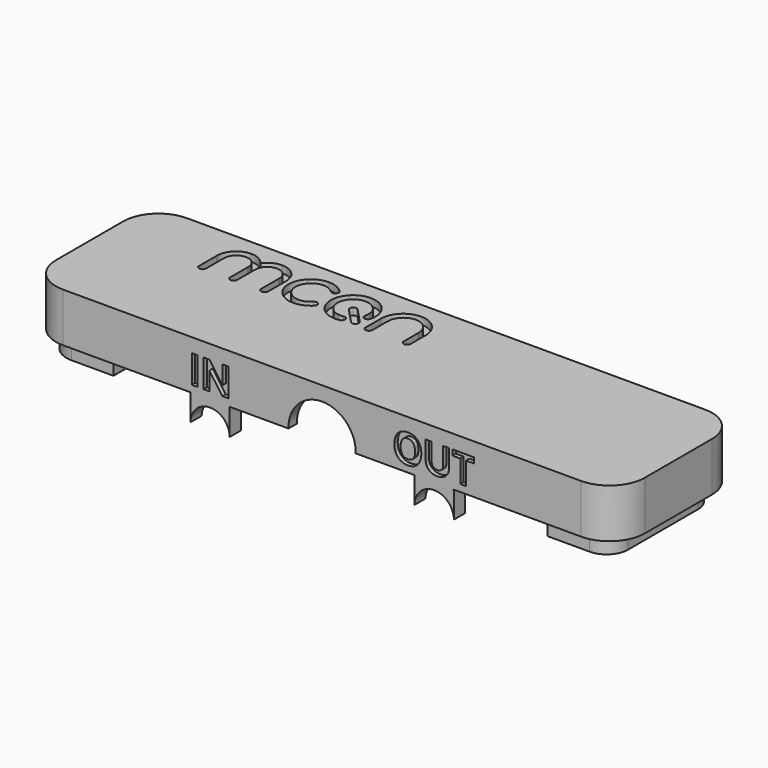
from build123d import *

# Parameters (mm, degrees)
PAD002_DEPTH    = 2
PAD003_DEPTH    = 5
SKETCH005_R     = 4.8
POCKET001_DEPTH = 5
PAD004_DEPTH    = 2
SKETCH007_R     = 2.75
PAD005_DEPTH    = 7.5
POCKET002_DEPTH = 1
SKETCH012_W     = 0.8308154578
SKETCH012_H     = 4
POCKET003_DEPTH = 0.6


with BuildPart() as part:
    # Sketch003 (on Face1 of Binder001) → Pad002 (new body)
    with BuildSketch(Plane.XY.offset(13)):
        with BuildLine():
            Line((-42.05, 6), (-42.05, -6))
            ThreePointArc((-42.05, -6), (-40.570889245, -9.570889245), (-37, -11.05))
            Line((-37, -11.05), (37, -11.05))
            ThreePointArc((37, -11.05), (40.570889245, -9.570889245), (42.05, -6))
            Line((42.05, -6), (42.05, 6))
            ThreePointArc((42.05, 6), (40.570889245, 9.570889245), (37, 11.05))
            Line((37, 11.05), (-37, 11.05))
            ThreePointArc((-37, 11.05), (-40.570889245, 9.570889245), (-42.05, 6))
        make_face()
    extrude(amount=PAD002_DEPTH)

    # Sketch004 (on Face9 of Pad002) → Pad003 (join)
    with BuildSketch(Plane(origin=(0, 0, 13), x_dir=(1, 0, 0), z_dir=(0, 0, -1))):
        with BuildLine():
            Line((-37, 11.05), (37, 11.05))
            ThreePointArc((42.05, 6), (40.570889245, 9.570889245), (37, 11.05))
            Line((42.05, 6), (42.05, -6))
            ThreePointArc((37, -11.05), (40.570889245, -9.570889245), (42.05, -6))
            Line((37, -11.05), (-37, -11.05))
            ThreePointArc((-42.05, -6), (-40.570889245, -9.570889245), (-37, -11.05))
            Line((-42.05, -6), (-42.05, 6))
            ThreePointArc((-37, 11.05), (-40.570889245, 9.570889245), (-42.05, 6))
        make_face()
        with BuildLine():
            ThreePointArc((-40.55, -5.5), (-39.5102290732, -8.0102290732), (-37, -9.05))
            Line((37, -9.05), (-37, -9.05))
            ThreePointArc((37, -9.05), (39.1566756826, -8.1566756826), (40.05, -6))
            Line((40.05, 6.5), (40.05, -6))
            ThreePointArc((40.05, 6.5), (39.1566756826, 8.6566756826), (37, 9.55))
            Line((-37, 9.55), (37, 9.55))
            ThreePointArc((-37, 9.55), (-39.5102290732, 8.5102290732), (-40.55, 6))
            Line((-40.55, -5.5), (-40.55, 6))
        make_face(mode=Mode.SUBTRACT)
    extrude(amount=PAD003_DEPTH)

    # Sketch005 (on Face14 of Pad003) → Pocket001 (cut)
    with BuildSketch(Plane.XZ.offset(11.05)):
        with Locations((0, 8.15)):
            Circle(SKETCH005_R)
    extrude(amount=-POCKET001_DEPTH, mode=Mode.SUBTRACT)

    # Sketch006 (on Face7 of Pocket001) → Pad004 (join)
    with BuildSketch(Plane.XZ.offset(11.05)):
        with BuildLine():
            ThreePointArc((-13.1999984437, 4.2), (-15.9868330339, 6.9999690484), (-18.7998746379, 4.2263305284))
            Line((-18.7999984437, 8), (-18.7998746379, 4.2263305284))
            Line((-13.1999984437, 8), (-18.7999984437, 8))
            Line((-13.1999984437, 4.2), (-13.1999984437, 8))
        make_face()
        with BuildLine():
            ThreePointArc((18.8261769682, 4.2296107602), (16.0000799358, 7.0263305273), (13.1738277912, 4.2297675105))
            Line((13.2000015563, 8), (13.1738277912, 4.2297675105))
            Line((13.2000015563, 8), (18.7998628931, 8))
            Line((18.8261769682, 4.2296107602), (18.7998628931, 8))
        make_face()
    extrude(amount=-PAD004_DEPTH)

    # Sketch007 (on Face26 of Pad004) → Pad005 (join)
    with BuildSketch(Plane(origin=(0, 0, 13), x_dir=(1, 0, 0), z_dir=(0, 0, -1))):
        with BuildLine():
            ThreePointArc((-37, 9.55), (-39.5102290732, 8.5102290732), (-40.55, 6))
            Line((-40.55, 6), (-40.55, -5.5))
            ThreePointArc((-40.55, -5.5), (-39.5102290732, -8.0102290732), (-37, -9.05))
            Line((-37, -9.05), (-31, -9.05))
            Line((-31, -9.05), (-31, 9.55))
            Line((-37, 9.55), (-31, 9.55))
        make_face()
        with Locations((-35.5, 0)):
            Circle(SKETCH007_R, mode=Mode.SUBTRACT)
        with BuildLine():
            ThreePointArc((40.05, 6.5), (39.1566756826, 8.6566756826), (37, 9.55))
            Line((31, 9.55), (37, 9.55))
            Line((31, -9.05), (31, 9.55))
            Line((37, -9.05), (31, -9.05))
            ThreePointArc((37, -9.05), (39.1566784015, -8.1566729638), (40.05, -5.9999923099))
            Line((40.05, 6.5), (40.05, -5.9999923099))
        make_face()
        with Locations((35.5, 0)):
            Circle(SKETCH007_R, mode=Mode.SUBTRACT)
    extrude(amount=PAD005_DEPTH)

    # Sketch011 → Pocket002 (cut)
    with BuildSketch(Plane.XY.offset(15)):
        with BuildLine():
            add(Edge.make_bspline(
                [(-6.5574136903, 7.7681901698), (-5.9431587915, 7.117671604), (-5.7491062987, 6.3706134136), (-5.7155171088, 5.8119601955)],
                knots=[0, 0, 0, 0, 1, 1, 1, 1], degree=3))
            add(Edge.make_bspline(
                [(-5.7155171088, 5.8119601955), (-5.6809141027, 5.2493921386), (-5.7926548133, 4.8574001151), (-5.8021804776, 4.8216919111)],
                knots=[0, 0, 0, 0, 1, 1, 1, 1], degree=3))
            add(Edge.make_bspline(
                [(-5.8021804776, 4.8216919111), (-5.8776091681, 4.5603426925), (-6.1511624069, 4.4119167008), (-6.4130635652, 4.4902629924)],
                knots=[0, 0, 0, 0, 1, 1, 1, 1], degree=3))
            add(Edge.make_bspline(
                [(-6.4130635652, 4.4902629924), (-6.6741904484, 4.5681927526), (-6.8253228363, 4.8416794434), (-6.7517874277, 5.1022002236)],
                knots=[0, 0, 0, 0, 1, 1, 1, 1], degree=3))
            add(Edge.make_bspline(
                [(-6.7517874277, 5.1022002236), (-6.7518856817, 5.102203163)],
                knots=[0, 0, 0.0014142136, 0.0014142136], degree=1))
            add(Edge.make_bspline(
                [(-6.7518856817, 5.102203163), (-6.7518856817, 5.102203163), (-6.7517309522, 5.1024443891), (-6.7515079896, 5.103322797)],
                knots=[0, 0, 0, 0, 1, 1, 1, 1], degree=3))
            add(Edge.make_bspline(
                [(-6.7515079896, 5.103322797), (-6.7512432484, 5.1039541), (-6.7510114677, 5.1051272702), (-6.750622018, 5.1066399205)],
                knots=[0, 0, 0, 0, 1, 1, 1, 1], degree=3))
            add(Edge.make_bspline(
                [(-6.750622018, 5.1066399205), (-6.749183049, 5.1120056825), (-6.7467634209, 5.1222100365), (-6.7436814111, 5.1364757679)],
                knots=[0, 0, 0, 0, 1, 1, 1, 1], degree=3))
            add(Edge.make_bspline(
                [(-6.7436814111, 5.1364757679), (-6.7370737784, 5.1650431305), (-6.728081987, 5.2108473618), (-6.7195211901, 5.270186513)],
                knots=[0, 0, 0, 0, 1, 1, 1, 1], degree=3))
            add(Edge.make_bspline(
                [(-6.7195211901, 5.270186513), (-6.7024025357, 5.3887665612), (-6.6880409968, 5.5614680254), (-6.7007358182, 5.7600561236)],
                knots=[0, 0, 0, 0, 1, 1, 1, 1], degree=3))
            add(Edge.make_bspline(
                [(-6.7007358182, 5.7600561236), (-6.7279817854, 6.1609265083), (-6.8527636817, 6.6479121306), (-7.2722472033, 7.0947889386)],
                knots=[0, 0, 0, 0, 1, 1, 1, 1], degree=3))
            add(Edge.make_bspline(
                [(-7.2722472033, 7.0947889386), (-7.6960251376, 7.5444002821), (-8.2562651042, 7.7799222968), (-8.8263753324, 7.8005672771)],
                knots=[0, 0, 0, 0, 1, 1, 1, 1], degree=3))
            add(Edge.make_bspline(
                [(-8.8263753324, 7.8005672771), (-9.3966667447, 7.8200867446), (-9.9676343142, 7.6246999806), (-10.4126266585, 7.2057501351)],
                knots=[0, 0, 0, 0, 1, 1, 1, 1], degree=3))
            add(Edge.make_bspline(
                [(-10.4126266585, 7.2057501351), (-10.8574283734, 6.7865979028), (-11.0865468643, 6.2283790626), (-11.1011030314, 5.6579883386)],
                knots=[0, 0, 0, 0, 1, 1, 1, 1], degree=3))
            add(Edge.make_bspline(
                [(-11.1011030314, 5.6579883386), (-11.1146766577, 5.0875682208), (-10.9130662994, 4.5142509412), (-10.4895919455, 4.0643536537)],
                knots=[0, 0, 0, 0, 1, 1, 1, 1], degree=3))
            add(Edge.make_bspline(
                [(-10.4895919455, 4.0643536537), (-10.0814074086, 3.63261534), (-9.6203140788, 3.4753893883), (-9.2288793693, 3.4189827302)],
                knots=[0, 0, 0, 0, 1, 1, 1, 1], degree=3))
            add(Edge.make_bspline(
                [(-9.2288793693, 3.4189827302), (-8.8570549503, 3.3661621675), (-8.5624089396, 3.4192046197), (-8.5338077556, 3.4252329233)],
                knots=[0, 0, 0, 0, 1, 1, 1, 1], degree=3))
            add(Edge.make_bspline(
                [(-8.5338077556, 3.4252329233), (-8.5334623967, 3.4252717625), (-8.5331617557, 3.4254594525), (-8.5329146508, 3.4255012311)],
                knots=[0, 0, 0, 0, 1, 1, 1, 1], degree=3))
            add(Edge.make_bspline(
                [(-8.5329146508, 3.4255012311), (-8.5325186951, 3.4255877277), (-8.5322715902, 3.4256295062), (-8.5320721427, 3.4257218815)],
                knots=[0, 0, 0, 0, 1, 1, 1, 1], degree=3))
            add(Edge.make_bspline(
                [(-8.5320721427, 3.4257218815), (-8.5317773805, 3.4257130634), (-8.5315749936, 3.4259036928), (-8.5315749936, 3.4259036928)],
                knots=[0, 0, 0, 0, 1, 1, 1, 1], degree=3))
            add(Edge.make_bspline(
                [(-8.5315749936, 3.4259036928), (-8.2672313312, 3.4834421576), (-8.0032176431, 3.3162790046), (-7.940935901, 3.0510558766)],
                knots=[0, 0, 0, 0, 1, 1, 1, 1], degree=3))
            add(Edge.make_bspline(
                [(-7.940935901, 3.0510558766), (-7.8784870447, 2.784844329), (-8.0429496803, 2.5207006809), (-8.3082899532, 2.4610776776)],
                knots=[0, 0, 0, 0, 1, 1, 1, 1], degree=3))
            add(Edge.make_bspline(
                [(-8.3082899532, 2.4610776776), (-8.3445572671, 2.4535577299), (-8.7425279947, 2.3654496549), (-9.3020691148, 2.4336710064)],
                knots=[0, 0, 0, 0, 1, 1, 1, 1], degree=3))
            add(Edge.make_bspline(
                [(-9.3020691148, 2.4336710064), (-9.8579147921, 2.5005033585), (-10.5918373124, 2.7389594185), (-11.2045237126, 3.3909553619)],
                knots=[0, 0, 0, 0, 1, 1, 1, 1], degree=3))
            add(Edge.make_bspline(
                [(-11.2045237126, 3.3909553619), (-12.426112692, 4.6882943079), (-12.376306575, 6.7196811299), (-11.0936530649, 7.9286791247)],
                knots=[0, 0, 0, 0, 1, 1, 1, 1], degree=3))
            add(Edge.make_bspline(
                [(-11.0936530649, 7.9286791247), (-9.8101417226, 9.1367663784), (-7.7794609796, 9.0650019455), (-6.5574136903, 7.7681901698)],
                knots=[0, 0, 0, 0, 1, 1, 1, 1], degree=3))
        make_face()
        with BuildLine():
            add(Edge.make_bspline(
                [(-8.3533675642, 5.7355924656), (-7.3320706504, 4.6513045838)],
                knots=[0, 0, 21.43, 21.43], degree=1))
            add(Edge.make_bspline(
                [(-7.3320706504, 4.6513045838), (-6.3108690513, 3.5671178955)],
                knots=[0, 0, 21.428, 21.428], degree=1))
            add(Edge.make_bspline(
                [(-6.3108690513, 3.5671178955), (-6.1229084806, 3.3675644002), (-6.1304900832, 3.0549652834), (-6.3279691127, 2.868958664)],
                knots=[0, 0, 0, 0, 1, 1, 1, 1], degree=3))
            add(Edge.make_bspline(
                [(-6.3279691127, 2.868958664), (-6.5252457553, 2.6831426739), (-6.8377390543, 2.6942614231), (-7.0256996249, 2.8938149185)],
                knots=[0, 0, 0, 0, 1, 1, 1, 1], degree=3))
            add(Edge.make_bspline(
                [(-7.0256996249, 2.8938149185), (-8.046901224, 3.9780016068)],
                knots=[0, 0, 21.428, 21.428], degree=1))
            add(Edge.make_bspline(
                [(-8.046901224, 3.9780016068), (-9.0681981379, 5.0622894885)],
                knots=[0, 0, 21.43, 21.43], degree=1))
            add(Edge.make_bspline(
                [(-9.0681981379, 5.0622894885), (-9.0682993313, 5.0621941738)],
                knots=[0, 0, 0.002, 0.002], degree=1))
            add(Edge.make_bspline(
                [(-9.0682993313, 5.0621941738), (-9.2561169299, 5.261595879), (-9.2484817912, 5.5743409072), (-9.0512051486, 5.7601568973)],
                knots=[0, 0, 0, 0, 1, 1, 1, 1], degree=3))
            add(Edge.make_bspline(
                [(-9.0512051486, 5.7601568973), (-8.8537261191, 5.9461635167), (-8.5411851628, 5.9349941708), (-8.3533675642, 5.7355924656)],
                knots=[0, 0, 0, 0, 1, 1, 1, 1], degree=3))
        make_face()
        with BuildLine():
            add(Edge.make_bspline(
                [(-14.9584863, 8.8588888889), (-15.7852563, 8.8588888889), (-16.6119839667, 8.5467158333), (-17.2350022222, 7.9236975778)],
                knots=[0, 0, 0, 0, 1, 1, 1, 1], degree=3))
            add(Edge.make_bspline(
                [(-17.2350022222, 7.9236975778), (-18.4810401444, 6.6776582444), (-18.4810401444, 4.6669547333), (-17.2350022222, 3.4209154)],
                knots=[0, 0, 0, 0, 1, 1, 1, 1], degree=3))
            add(Edge.make_bspline(
                [(-17.2350022222, 3.4209154), (-15.9889643, 2.1748774778), (-13.9280083, 2.1748774778), (-12.6819703778, 3.4209154)],
                knots=[0, 0, 0, 0, 1, 1, 1, 1], degree=3))
            add(Edge.make_bspline(
                [(-12.6819703778, 3.4209154), (-12.3209669129, 3.7690138501), (-12.6880508078, 4.111142466), (-13.0551347027, 4.453271082), (-13.4032753444, 4.0931842556)],
                knots=[5.4975252098, 5.4975252098, 5.4975252098, 7.0858427102, 7.0858427102, 8.6741602105, 8.6741602105, 8.6741602105], degree=2, weights=[1, 0.7008850558, 1, 0.7008850558, 1]))
            add(Edge.make_bspline(
                [(-13.4032753444, 4.0931842556), (-14.2732055889, 3.2232540111), (-15.6421343556, 3.2232540111), (-16.5120660111, 4.0931842556)],
                knots=[0, 0, 0, 0, 1, 1, 1, 1], degree=3))
            add(Edge.make_bspline(
                [(-16.5120660111, 4.0931842556), (-16.5185994556, 4.0994778111)],
                knots=[0, 0, 0.064287246, 0.064287246], degree=1))
            add(Edge.make_bspline(
                [(-16.5185994556, 4.0994778111), (-17.3820583444, 4.9699640333), (-17.3798414889, 6.3852280444), (-16.5120660111, 7.2529978778)],
                knots=[0, 0, 0, 0, 1, 1, 1, 1], degree=3))
            add(Edge.make_bspline(
                [(-16.5120660111, 7.2529978778), (-15.6421343556, 8.1229295333), (-14.2732055889, 8.1229295333), (-13.4032753444, 7.2529978778)],
                knots=[0, 0, 0, 0, 1, 1, 1, 1], degree=3))
            add(Edge.make_bspline(
                [(-13.4032753444, 7.2529978778), (-13.0568431811, 6.8690866943), (-12.6769575744, 7.2223180818), (-12.2970719678, 7.5755494694), (-12.6819703778, 7.9236933444)],
                knots=[3.8579103665, 3.8579103665, 3.8579103665, 5.4793570709, 5.4793570709, 7.1008037753, 7.1008037753, 7.1008037753], degree=2, weights=[1, 0.6889743379, 1, 0.6889743379, 1]))
            add(Edge.make_bspline(
                [(-12.6819703778, 7.9236933444), (-13.3049886333, 8.5467116), (-14.1317177111, 8.8588846556), (-14.9584863, 8.8588846556)],
                knots=[0, 0, 0, 0, 1, 1, 1, 1], degree=3))
            add(Edge.make_bspline(
                [(-14.9584863, 8.8588846556), (-14.9584863, 8.8588888889)],
                knots=[0, 0, 3e-05, 3e-05], degree=1))
        make_face()
        with BuildLine():
            add(Edge.make_bspline(
                [(-1.7876032421, 8.8015625238), (-3.5644631073, 8.7705473592), (-4.9710699857, 7.3042220454), (-4.9405547072, 5.5560068899)],
                knots=[0, 0, 0, 0, 1, 1, 1, 1], degree=3))
            add(Edge.make_bspline(
                [(-4.9405547072, 5.5560068899), (-4.9382108515, 5.5434282451), (-4.9345377292, 5.532731176), (-4.9317352625, 5.5207291113)],
                knots=[0, 0, 0, 0, 1, 1, 1, 1], degree=3))
            add(Edge.make_bspline(
                [(-4.9317352625, 5.5207291113), (-4.9317352625, 2.901354048)],
                knots=[0, 0, 18.5625, 18.5625], degree=1))
            add(Edge.make_bspline(
                [(-4.9317352625, 2.901354048), (-4.9385184738, 2.7683755904), (-4.8867575059, 2.631866956), (-4.7950338703, 2.5353470947)],
                knots=[0, 0, 0, 0, 1, 1, 1, 1], degree=3))
            add(Edge.make_bspline(
                [(-4.7950338703, 2.5353470947), (-4.7033102348, 2.4388272335), (-4.5709973982, 2.3810068132), (-4.4378463617, 2.3810068132)],
                knots=[0, 0, 0, 0, 1, 1, 1, 1], degree=3))
            add(Edge.make_bspline(
                [(-4.4378463617, 2.3810068132), (-4.3046953251, 2.3810068132), (-4.1723824886, 2.4388272335), (-4.0806588531, 2.5353470947)],
                knots=[0, 0, 0, 0, 1, 1, 1, 1], degree=3))
            add(Edge.make_bspline(
                [(-4.0806588531, 2.5353470947), (-3.9889352175, 2.631866956), (-3.941585383, 2.7683755904), (-3.9483671832, 2.901354048)],
                knots=[0, 0, 0, 0, 1, 1, 1, 1], degree=3))
            add(Edge.make_bspline(
                [(-3.9483671832, 2.901354048), (-3.9483671832, 5.476631888)],
                knots=[0, 0, 18.25, 18.25], degree=1))
            add(Edge.make_bspline(
                [(-3.9483671832, 5.476631888), (-3.9414993053, 5.5062646576), (-3.9357250384, 5.5370322428), (-3.9351380162, 5.5692360569)],
                knots=[0, 0, 0, 0, 1, 1, 1, 1], degree=3))
            add(Edge.make_bspline(
                [(-3.9351380162, 5.5692360569), (-3.9568479612, 6.8129976047), (-2.9850806266, 7.8146234161), (-1.7699643528, 7.8358333338)],
                knots=[0, 0, 0, 0, 1, 1, 1, 1], degree=3))
            add(Edge.make_bspline(
                [(-1.7699643528, 7.8358333338), (-0.554848079, 7.857043181), (0.4572840898, 6.8923726066), (0.4789940348, 5.6486110588)],
                knots=[0, 0, 0, 0, 1, 1, 1, 1], degree=3))
            add(Edge.make_bspline(
                [(0.4789940348, 5.6486110588), (0.4794808681, 5.6225232826), (0.4794808681, 5.5953238331), (0.4789940348, 5.5692360569)],
                knots=[0, 0, 0, 0, 1, 1, 1, 1], degree=3))
            add(Edge.make_bspline(
                [(0.4789940348, 5.5692360569), (0.4784338237, 5.5271920003), (0.4811092904, 5.4901630327), (0.4878134795, 5.4545832763)],
                knots=[0, 0, 0, 0, 1, 1, 1, 1], degree=3))
            add(Edge.make_bspline(
                [(0.4878134795, 5.4545832763), (0.4878134795, 2.901354048)],
                knots=[0, 0, 18.09375, 18.09375], degree=1))
            add(Edge.make_bspline(
                [(0.4878134795, 2.901354048), (0.4878134795, 2.6431847729), (0.7191228184, 2.4074651472), (0.9772926579, 2.4074651472)],
                knots=[0, 0, 0, 0, 1, 1, 1, 1], degree=3))
            add(Edge.make_bspline(
                [(0.9772926579, 2.4074651472), (1.2354624975, 2.4074651472), (1.4711815588, 2.6431847729), (1.4711815588, 2.901354048)],
                knots=[0, 0, 0, 0, 1, 1, 1, 1], degree=3))
            add(Edge.make_bspline(
                [(1.4711815588, 2.901354048), (1.4711815588, 5.5119096666)],
                knots=[0, 0, 18.5, 18.5], degree=1))
            add(Edge.make_bspline(
                [(1.4711815588, 5.5119096666), (1.4738993588, 5.5264572347), (1.4790837812, 5.5408291195), (1.4800010034, 5.5560068899)],
                knots=[0, 0, 0, 0, 1, 1, 1, 1], degree=3))
            add(Edge.make_bspline(
                [(1.4800010034, 5.5560068899), (1.4806261257, 5.5929557063), (1.4806261257, 5.6293012728), (1.4800010034, 5.6662499481)],
                knots=[0, 0, 0, 0, 1, 1, 1, 1], degree=3))
            add(Edge.make_bspline(
                [(1.4800010034, 5.6662499481), (1.4494857249, 7.4144651036), (-0.010743377, 8.8325776884), (-1.7876032421, 8.8015625238)],
                knots=[0, 0, 0, 0, 1, 1, 1, 1], degree=3))
        make_face()
        with BuildLine():
            add(Edge.make_bspline(
                [(-26.0572297862, 8.8057305403), (-27.5095730916, 8.7768113729), (-28.6622743141, 7.6048934936), (-28.7064350214, 6.184772338)],
                knots=[0, 0, 0, 0, 1, 1, 1, 1], degree=3))
            add(Edge.make_bspline(
                [(-28.7064350214, 6.184772338), (-28.7183143449, 6.1309660598), (-28.717584672, 6.0759289214)],
                knots=[2.9293168049, 2.9293168049, 2.9293168049, 3.1545340944, 3.1545340944, 3.1545340944], degree=2, weights=[1, 0.9936663437, 1]))
            add(Edge.make_bspline(
                [(-28.717584672, 6.0759289214), (-28.717584672, 6.0563369257)],
                knots=[0, 0, 0.28187, 0.28187], degree=1))
            add(Edge.make_bspline(
                [(-28.717584672, 6.0563369257), (-28.717584672, 2.8998667225)],
                knots=[0, 0, 45.41213, 45.41213], degree=1))
            add(Edge.make_bspline(
                [(-28.717584672, 2.8998667225), (-28.7318510923, 2.3996021542), (-28.2191863906, 2.3996021542), (-27.7065216888, 2.3996021542), (-27.7207881091, 2.8998667225)],
                knots=[3.1137610861, 3.1137610861, 3.1137610861, 4.7123889804, 4.7123889804, 6.3110168747, 6.3110168747, 6.3110168747], degree=2, weights=[1, 0.6971986896, 1, 0.6971986896, 1]))
            add(Edge.make_bspline(
                [(-27.7207881091, 2.8998667225), (-27.7207881091, 6.0389218956)],
                knots=[0, 0, 45.16158, 45.16158], degree=1))
            add(Edge.make_bspline(
                [(-27.7207881091, 6.0389218956), (-27.7202267777, 6.0552484428), (-27.7207881091, 6.0715749901)],
                knots=[6.2496349988, 6.2496349988, 6.2496349988, 6.3167356156, 6.3167356156, 6.3167356156], degree=2, weights=[1, 0.9994372412, 1]))
            add(Edge.make_bspline(
                [(-27.7207881091, 6.0715749901), (-27.7208138267, 6.0730554935), (-27.7207658668, 6.0744456376), (-27.7207881091, 6.0759261411)],
                knots=[0, 0, 0, 0, 1, 1, 1, 1], degree=3))
            add(Edge.make_bspline(
                [(-27.7207881091, 6.0759261411), (-27.735278276, 7.0411261191), (-26.9792817769, 7.8161418745), (-26.0326999987, 7.832664432)],
                knots=[0, 0, 0, 0, 1, 1, 1, 1], degree=3))
            add(Edge.make_bspline(
                [(-26.0326999987, 7.832664432), (-25.0846648249, 7.8492127073), (-24.3012873528, 7.09979437), (-24.2844033578, 6.1325244675)],
                knots=[0, 0, 0, 0, 1, 1, 1, 1], degree=3))
            add(Edge.make_bspline(
                [(-24.2844033578, 6.1325244675), (-24.2842643434, 6.1251928476), (-24.2844388064, 6.1180892113), (-24.2844033578, 6.1107562012)],
                knots=[0, 0, 0, 0, 1, 1, 1, 1], degree=3))
            add(Edge.make_bspline(
                [(-24.2844033578, 6.1107562012), (-24.2843408013, 6.0975567831), (-24.2841948362, 6.0847702378), (-24.2844033578, 6.0715722098)],
                knots=[0, 0, 0, 0, 1, 1, 1, 1], degree=3))
            add(Edge.make_bspline(
                [(-24.2844033578, 6.0715722098), (-24.2844033578, 6.0563341454)],
                knots=[0, 0, 0.21923, 0.21923], degree=1))
            add(Edge.make_bspline(
                [(-24.2844033578, 6.0563341454), (-24.2849646891, 6.0400075981), (-24.2844033578, 6.0236810509)],
                knots=[3.1080423452, 3.1080423452, 3.1080423452, 3.175142962, 3.175142962, 3.175142962], degree=2, weights=[1, 0.9994372412, 1]))
            add(Edge.make_bspline(
                [(-24.2844033578, 6.0236810509), (-24.2844033578, 2.8998639422)],
                knots=[0, 0, 44.94235, 44.94235], degree=1))
            add(Edge.make_bspline(
                [(-24.2844033578, 2.8998639422), (-24.2986697781, 2.3995993739), (-23.7860050763, 2.3995993739), (-23.2733403745, 2.3995993739), (-23.2876067948, 2.8998639422)],
                knots=[3.1137610861, 3.1137610861, 3.1137610861, 4.7123889804, 4.7123889804, 6.3110168747, 6.3110168747, 6.3110168747], degree=2, weights=[1, 0.6971986896, 1, 0.6971986896, 1]))
            add(Edge.make_bspline(
                [(-23.2876067948, 2.8998639422), (-23.2876067948, 6.0389191153)],
                knots=[0, 0, 45.16158, 45.16158], degree=1))
            add(Edge.make_bspline(
                [(-23.2876067948, 6.0389191153), (-23.2874471907, 6.0476266303), (-23.2876067948, 6.0563341454)],
                knots=[6.265294164, 6.265294164, 6.265294164, 6.3010764504, 6.3010764504, 6.3010764504], degree=2, weights=[1, 0.9998399578, 1]))
            add(Edge.make_bspline(
                [(-23.2876067948, 6.0563341454), (-23.2876067948, 6.0715722098)],
                knots=[0, 0, 0.21923, 0.21923], degree=1))
            add(Edge.make_bspline(
                [(-23.2876067948, 6.0715722098), (-23.2876325125, 6.0730527133), (-23.2875845525, 6.0744428573), (-23.2876067948, 6.0759233608)],
                knots=[0, 0, 0, 0, 1, 1, 1, 1], degree=3))
            add(Edge.make_bspline(
                [(-23.2876067948, 6.0759233608), (-23.3020969617, 7.0411233388), (-22.5461004627, 7.8161390942), (-21.5995193795, 7.8326616517)],
                knots=[0, 0, 0, 0, 1, 1, 1, 1], degree=3))
            add(Edge.make_bspline(
                [(-21.5995193795, 7.8326616517), (-20.6514835106, 7.849209927), (-19.8681060385, 7.0997915898), (-19.8512227386, 6.1325216872)],
                knots=[0, 0, 0, 0, 1, 1, 1, 1], degree=3))
            add(Edge.make_bspline(
                [(-19.8512227386, 6.1325216872), (-19.8510837242, 6.1251900673), (-19.8512574922, 6.118086431), (-19.8512227386, 6.1107534209)],
                knots=[0, 0, 0, 0, 1, 1, 1, 1], degree=3))
            add(Edge.make_bspline(
                [(-19.8512227386, 6.1107534209), (-19.851159487, 6.0975540028), (-19.851014217, 6.0847674575), (-19.8512227386, 6.0715694295)],
                knots=[0, 0, 0, 0, 1, 1, 1, 1], degree=3))
            add(Edge.make_bspline(
                [(-19.8512227386, 6.0715694295), (-19.852431006, 6.0476238501), (-19.8512227386, 6.0236782706)],
                knots=[3.0923749448, 3.0923749448, 3.0923749448, 3.1908103624, 3.1908103624, 3.1908103624], degree=2, weights=[1, 0.998789053, 1]))
            add(Edge.make_bspline(
                [(-19.8512227386, 6.0236782706), (-19.8512227386, 2.8998611619)],
                knots=[0, 0, 44.94235, 44.94235], degree=1))
            add(Edge.make_bspline(
                [(-19.8512227386, 2.8998611619), (-19.8654891589, 2.3995965937), (-19.3528244571, 2.3995965937), (-18.8401597553, 2.3995965937), (-18.8544261756, 2.8998611619)],
                knots=[3.1137610861, 3.1137610861, 3.1137610861, 4.7123889804, 4.7123889804, 6.3110168747, 6.3110168747, 6.3110168747], degree=2, weights=[1, 0.6971986896, 1, 0.6971986896, 1]))
            add(Edge.make_bspline(
                [(-18.8544261756, 2.8998611619), (-18.8544261756, 6.0563313651)],
                knots=[0, 0, 45.41213, 45.41213], degree=1))
            add(Edge.make_bspline(
                [(-18.8544261756, 6.0563313651), (-18.8542871612, 6.0628302887), (-18.8544887321, 6.0694244372), (-18.8544261756, 6.0759233608)],
                knots=[0, 0, 0, 0, 1, 1, 1, 1], degree=3))
            add(Edge.make_bspline(
                [(-18.8544261756, 6.0759233608), (-18.854217654, 6.1004719153), (-18.8540091324, 6.125389553), (-18.8544261756, 6.1499367173)],
                knots=[0, 0, 0, 0, 1, 1, 1, 1], degree=3))
            add(Edge.make_bspline(
                [(-18.8544261756, 6.1499367173), (-18.8802724296, 7.6306486931), (-20.1174137843, 8.8319069535), (-21.6173590986, 8.8057249798)],
                knots=[0, 0, 0, 0, 1, 1, 1, 1], degree=3))
            add(Edge.make_bspline(
                [(-21.6173590986, 8.8057249798), (-22.5169505313, 8.7900233023), (-23.3006074223, 8.3318123487), (-23.7826600421, 7.6519811492)],
                knots=[0, 0, 0, 0, 1, 1, 1, 1], degree=3))
            add(Edge.make_bspline(
                [(-23.7826600421, 7.6519811492), (-24.2834545844, 8.3602533066), (-25.1153091612, 8.8220494418), (-26.0505404129, 8.8057249798)],
                knots=[0, 0, 0, 0, 1, 1, 1, 1], degree=3))
            add(Edge.make_bspline(
                [(-26.0505404129, 8.8057249798), (-26.057227006, 8.8057249798)],
                knots=[0, 0, 0.0962, 0.0962], degree=1))
            add(Edge.make_bspline(
                [(-26.057227006, 8.8057249798), (-26.0572297862, 8.8057305403)],
                knots=[0, 0, 8.94427e-05, 8.94427e-05], degree=1))
        make_face()
    extrude(amount=-POCKET002_DEPTH, mode=Mode.SUBTRACT)

    # Sketch012 (on Face7 of Pocket002) → Pocket003 (cut)
    with BuildSketch(Plane.XZ.offset(11.05)):
        with Locations((-18.1826224856, 11)):
            Rectangle(SKETCH012_W, SKETCH012_H)
        Polygon((-13.4019697855, 9), (-14.2583256823, 9), (-16.1044153243, 11.6204824305), (-16.1044153243, 9), (-16.9248810617, 9), (-16.9248810617, 13), (-16.0685251648, 13), (-14.2276103831, 10.3743427093), (-14.2276103831, 13), (-13.4019697855, 13), align=None)
        with BuildLine():
            add(Edge.make_bspline(
                [(14.1701027125, 10.9794674902), (14.1701027125, 10.5384358568), (14.0469076537, 10.1588348218)],
                knots=[0, 0, 0, 1, 1, 1], degree=2))
            add(Edge.make_bspline(
                [(14.0469076537, 10.1588348218), (13.9238795258, 9.7794007178), (13.6828311993, 9.5024622319)],
                knots=[0, 0, 0, 1, 1, 1], degree=2))
            add(Edge.make_bspline(
                [(13.6828311993, 9.5024622319), (13.4419498038, 9.2256906769), (13.080377314, 9.0692763542)],
                knots=[0, 0, 0, 1, 1, 1], degree=2))
            add(Edge.make_bspline(
                [(13.080377314, 9.0692763542), (12.7188048242, 8.9128620315), (12.2418830314, 8.9128620315)],
                knots=[0, 0, 0, 1, 1, 1], degree=2))
            add(Edge.make_bspline(
                [(12.2418830314, 8.9128620315), (11.7649612385, 8.9128620315), (11.4058927134, 9.0717803188)],
                knots=[0, 0, 0, 1, 1, 1], degree=2))
            add(Edge.make_bspline(
                [(11.4058927134, 9.0717803188), (11.0469911192, 9.2306986061), (10.8059427927, 9.5076370921)],
                knots=[0, 0, 0, 1, 1, 1], degree=2))
            add(Edge.make_bspline(
                [(10.8059427927, 9.5076370921), (10.5650613971, 9.784575578), (10.4418663383, 10.164009682)],
                knots=[0, 0, 0, 1, 1, 1], degree=2))
            add(Edge.make_bspline(
                [(10.4418663383, 10.164009682), (10.3188382104, 10.543610717), (10.3188382104, 10.9846423504)],
                knots=[0, 0, 0, 1, 1, 1], degree=2))
            add(Edge.make_bspline(
                [(10.3188382104, 10.9846423504), (10.3188382104, 11.4358567732), (10.4366914781, 11.8177948418)],
                knots=[0, 0, 0, 1, 1, 1], degree=2))
            add(Edge.make_bspline(
                [(10.4366914781, 11.8177948418), (10.5547116767, 12.1998998414), (10.7930891077, 12.479342292)],
                knots=[0, 0, 0, 1, 1, 1], degree=2))
            add(Edge.make_bspline(
                [(10.7930891077, 12.479342292), (11.0316334696, 12.7589516735), (11.3932059594, 12.9153659962)],
                knots=[0, 0, 0, 1, 1, 1], degree=2))
            add(Edge.make_bspline(
                [(11.3932059594, 12.9153659962), (11.7547784491, 13.0717803188), (12.2418830314, 13.0717803188)],
                knots=[0, 0, 0, 1, 1, 1], degree=2))
            add(Edge.make_bspline(
                [(12.2418830314, 13.0717803188), (12.7239796844, 13.0717803188), (13.0853852432, 12.9126951006)],
                knots=[0, 0, 0, 1, 1, 1], degree=2))
            add(Edge.make_bspline(
                [(13.0853852432, 12.9126951006), (13.446957733, 12.7537768133), (13.6880060595, 12.4743343627)],
                knots=[0, 0, 0, 1, 1, 1], degree=2))
            add(Edge.make_bspline(
                [(13.6880060595, 12.4743343627), (13.929054386, 12.1948919122), (14.0495785493, 11.810282948)],
                knots=[0, 0, 0, 1, 1, 1], degree=2))
            add(Edge.make_bspline(
                [(14.0495785493, 11.810282948), (14.1701027125, 11.4256739838), (14.1701027125, 10.9794674902)],
                knots=[0, 0, 0, 1, 1, 1], degree=2))
        make_face()
        with BuildLine():
            add(Edge.make_bspline(
                [(13.2778566563, 10.9794674902), (13.2778566563, 11.2460562557), (13.2239379517, 11.4844336867)],
                knots=[0, 0, 0, 1, 1, 1], degree=2))
            add(Edge.make_bspline(
                [(13.2239379517, 11.4844336867), (13.170186178, 11.7229780486), (13.0469911192, 11.9024288457)],
                knots=[0, 0, 0, 1, 1, 1], degree=2))
            add(Edge.make_bspline(
                [(13.0469911192, 11.9024288457), (12.9239629913, 12.0820465737), (12.726483649, 12.1845421918)],
                knots=[0, 0, 0, 1, 1, 1], degree=2))
            add(Edge.make_bspline(
                [(12.726483649, 12.1845421918), (12.5291712377, 12.2872047408), (12.2470578916, 12.2872047408)],
                knots=[0, 0, 0, 1, 1, 1], degree=2))
            add(Edge.make_bspline(
                [(12.2470578916, 12.2872047408), (11.9651114764, 12.2872047408), (11.7676321341, 12.1820382272)],
                knots=[0, 0, 0, 1, 1, 1], degree=2))
            add(Edge.make_bspline(
                [(11.7676321341, 12.1820382272), (11.5701527918, 12.0768717135), (11.447124664, 11.8999248811)],
                knots=[0, 0, 0, 1, 1, 1], degree=2))
            add(Edge.make_bspline(
                [(11.447124664, 11.8999248811), (11.3240965361, 11.7229780486), (11.2676738669, 11.4844336867)],
                knots=[0, 0, 0, 1, 1, 1], degree=2))
            add(Edge.make_bspline(
                [(11.2676738669, 11.4844336867), (11.2112511977, 11.2460562557), (11.2112511977, 10.9794674902)],
                knots=[0, 0, 0, 1, 1, 1], degree=2))
            add(Edge.make_bspline(
                [(11.2112511977, 10.9794674902), (11.2112511977, 10.6973541441), (11.2650029713, 10.4614806777)],
                knots=[0, 0, 0, 1, 1, 1], degree=2))
            add(Edge.make_bspline(
                [(11.2650029713, 10.4614806777), (11.3189216759, 10.2256072114), (11.4419498038, 10.0538352391)],
                knots=[0, 0, 0, 1, 1, 1], degree=2))
            add(Edge.make_bspline(
                [(11.4419498038, 10.0538352391), (11.5651448626, 9.8820632668), (11.7624572739, 9.7870795426)],
                knots=[0, 0, 0, 1, 1, 1], degree=2))
            add(Edge.make_bspline(
                [(11.7624572739, 9.7870795426), (11.9599366162, 9.6922627494), (12.2470578916, 9.6922627494)],
                knots=[0, 0, 0, 1, 1, 1], degree=2))
            add(Edge.make_bspline(
                [(12.2470578916, 9.6922627494), (12.5393540271, 9.6922627494), (12.7368333694, 9.7870795426)],
                knots=[0, 0, 0, 1, 1, 1], degree=2))
            add(Edge.make_bspline(
                [(12.7368333694, 9.7870795426), (12.9343127117, 9.8820632668), (13.054836875, 10.0538352391)],
                knots=[0, 0, 0, 1, 1, 1], degree=2))
            add(Edge.make_bspline(
                [(13.054836875, 10.0538352391), (13.1753610382, 10.2256072114), (13.2266088473, 10.4614806777)],
                knots=[0, 0, 0, 1, 1, 1], degree=2))
            add(Edge.make_bspline(
                [(13.2266088473, 10.4614806777), (13.2778566563, 10.6973541441), (13.2778566563, 10.9794674902)],
                knots=[0, 0, 0, 1, 1, 1], degree=2))
        make_face(mode=Mode.SUBTRACT)
        with BuildLine():
            add(Edge.make_bspline(
                [(18.1170186628, 10.4409481679), (18.1170186628, 10.0461564143), (17.9759619897, 9.7563642434)],
                knots=[0, 0, 0, 1, 1, 1], degree=2))
            add(Edge.make_bspline(
                [(17.9759619897, 9.7563642434), (17.8349053167, 9.4667390034), (17.5990318504, 9.2794424505)],
                knots=[0, 0, 0, 1, 1, 1], degree=2))
            add(Edge.make_bspline(
                [(17.5990318504, 9.2794424505), (17.363158384, 9.0923128286), (17.0631834237, 9)],
                knots=[0, 0, 0, 1, 1, 1], degree=2))
            add(Edge.make_bspline(
                [(17.0631834237, 9), (16.7632084633, 8.9076871714), (16.4452049578, 8.9076871714)],
                knots=[0, 0, 0, 1, 1, 1], degree=2))
            add(Edge.make_bspline(
                [(16.4452049578, 8.9076871714), (16.122193523, 8.9076871714), (15.8222185626, 9)],
                knots=[0, 0, 0, 1, 1, 1], degree=2))
            add(Edge.make_bspline(
                [(15.8222185626, 9), (15.5222436023, 9.0923128286), (15.2940489608, 9.2794424505)],
                knots=[0, 0, 0, 1, 1, 1], degree=2))
            add(Edge.make_bspline(
                [(15.2940489608, 9.2794424505), (15.0658543193, 9.4667390034), (14.9273016108, 9.7538602788)],
                knots=[0, 0, 0, 1, 1, 1], degree=2))
            add(Edge.make_bspline(
                [(14.9273016108, 9.7538602788), (14.7889158333, 10.0409815541), (14.7889158333, 10.4359402387)],
                knots=[0, 0, 0, 1, 1, 1], degree=2))
            Line((14.7889158333, 10.4359402387), (14.7889158333, 13))
            Line((14.7889158333, 13), (15.6504465904, 13))
            Line((15.6504465904, 13), (15.6504465904, 10.4409481679))
            add(Edge.make_bspline(
                [(15.6504465904, 10.4409481679), (15.6504465904, 10.2513145814), (15.7195560136, 10.1102579084)],
                knots=[0, 0, 0, 1, 1, 1], degree=2))
            add(Edge.make_bspline(
                [(15.7195560136, 10.1102579084), (15.7888323678, 9.9692012353), (15.8990068107, 9.8768884066)],
                knots=[0, 0, 0, 1, 1, 1], degree=2))
            add(Edge.make_bspline(
                [(15.8990068107, 9.8768884066), (16.0093481845, 9.784575578), (16.1554127868, 9.7410065938)],
                knots=[0, 0, 0, 1, 1, 1], degree=2))
            add(Edge.make_bspline(
                [(16.1554127868, 9.7410065938), (16.3016443201, 9.6974376095), (16.4555546782, 9.6974376095)],
                knots=[0, 0, 0, 1, 1, 1], degree=2))
            add(Edge.make_bspline(
                [(16.4555546782, 9.6974376095), (16.604290176, 9.6974376095), (16.7503547783, 9.7410065938)],
                knots=[0, 0, 0, 1, 1, 1], degree=2))
            add(Edge.make_bspline(
                [(16.7503547783, 9.7410065938), (16.8965863116, 9.784575578), (17.0092647191, 9.8768884066)],
                knots=[0, 0, 0, 1, 1, 1], degree=2))
            add(Edge.make_bspline(
                [(17.0092647191, 9.8768884066), (17.1221100575, 9.9692012353), (17.1913864117, 10.1075870128)],
                knots=[0, 0, 0, 1, 1, 1], degree=2))
            add(Edge.make_bspline(
                [(17.1913864117, 10.1075870128), (17.260662766, 10.2461397212), (17.260662766, 10.4409481679)],
                knots=[0, 0, 0, 1, 1, 1], degree=2))
            Line((17.260662766, 10.4409481679), (17.2554879058, 13))
            Line((17.2554879058, 13), (18.1170186628, 13))
            Line((18.1170186628, 13), (18.1170186628, 10.4409481679))
        make_face()
        Polygon((21.6811618896, 12.2102495618), (20.5580502962, 12.2102495618), (20.5580502962, 9), (19.7324096986, 9), (19.7324096986, 12.2102495618), (18.6092981053, 12.2102495618), (18.6092981053, 13), (21.6811618896, 13), align=None)
    extrude(amount=-POCKET003_DEPTH, mode=Mode.SUBTRACT)


solid = part.part
